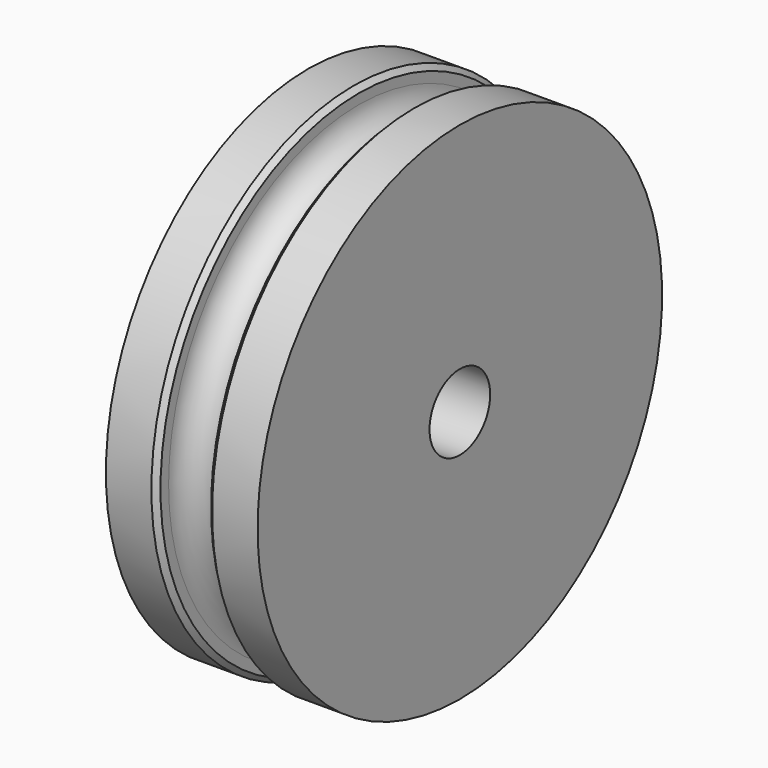
from build123d import *

# Parameters (mm, degrees)
F2_R     = 0.75
F3_DEPTH = 3
F4_SIZE  = 0.1


with BuildPart() as f1:
    # F0 (on Front) → F1 (revolve)
    with BuildSketch(Plane.XZ):
        with BuildLine():
            Line((-1.5, 0), (0, 0))
            Line((0, 0), (1.5, 0))
            Line((1.5, 0), (1.5, 5))
            Line((1.5, 5), (0.5, 5))
            Line((0.5, 5), (0.5, 4.7))
            ThreePointArc((0.5, 4.7), (0, 4.2), (-0.5, 4.7))
            Line((-0.5, 4.7), (-0.5, 5))
            Line((-0.5, 5), (-1.5, 5))
            Line((-1.5, 5), (-1.5, 0))
        make_face()
    revolve(axis=Axis((-0.75, 0, 0), (-1, 0, 0)))

    # F2 (on face) → F3 (cut, through all)
    with BuildSketch(Plane.YZ.offset(1.5)):
        Circle(F2_R)
    extrude(amount=-F3_DEPTH, mode=Mode.SUBTRACT)

    # F4
    f4_edges = [f1.edges().sort_by_distance(p)[0] for p in [
        (0.5, 0, -5),
        (-0.5, 0, -5),
    ]]
    chamfer(f4_edges, length=F4_SIZE)


solid = f1.part
